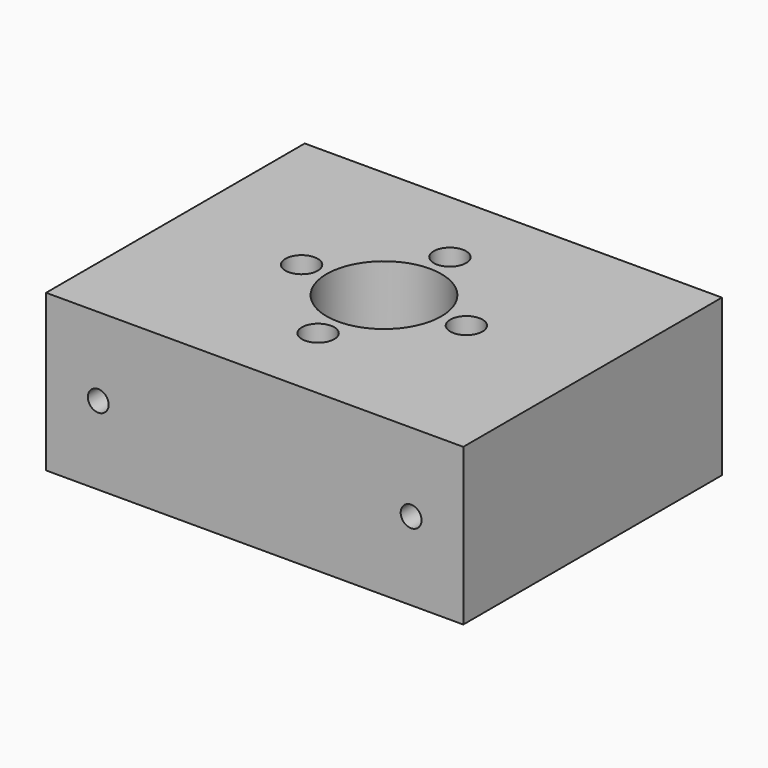
from build123d import *

# Parameters (mm, degrees)
F0_W           = 40
F0_H           = 31
F1_DEPTH       = 15
F2_D           = 11
F3_D           = 3.1
F3_CSINK_D     = 5.6
F3_CSINK_ANGLE = 90
F5_D           = 2


with BuildPart() as f1:
    # F0 (on Top) → F1 (new body)
    with BuildSketch(Plane.XY):
        Rectangle(F0_W, F0_H)
    extrude(amount=F1_DEPTH)

    # F2 (through all)
    with Locations(Plane(origin=(0, 0, 0), x_dir=(1, 0, 0), z_dir=(0, 0, -1))):
        with Locations((0, 0)):
            Hole(F2_D / 2)

    # F3 (through all)
    with Locations(Plane(origin=(0, 0, 0), x_dir=(1, 0, 0), z_dir=(0, 0, -1))):
        with Locations((7.9, 0), (0, 7.9), (-7.9, 0), (0, -7.9)):
            CounterSinkHole(F3_D / 2, F3_CSINK_D / 2, counter_sink_angle=F3_CSINK_ANGLE)

    # F5 (through all)
    with Locations(Plane.XZ.offset(15.5)):
        with Locations((-15, 7.5), (15, 7.5)):
            Hole(F5_D / 2)


solid = f1.part
